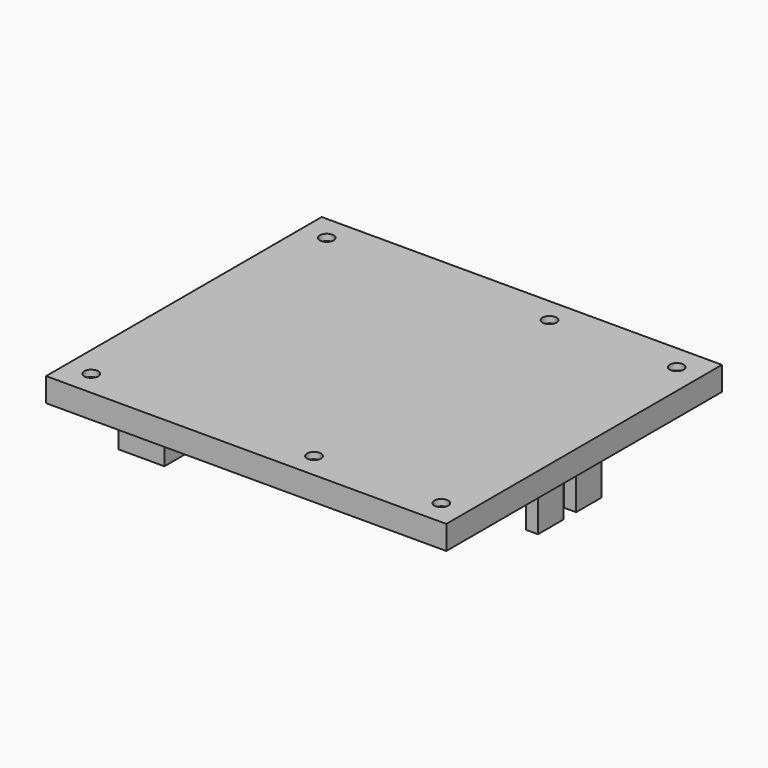
from build123d import *

# Parameters (mm, degrees)
SKETCH031_W             = 98.6
SKETCH031_H             = 84.6
PAD021_DEPTH            = 1.6
SKETCH032_W             = 100.6
SKETCH032_H             = 86.6
SKETCH032_W_2           = 98.6
SKETCH032_H_2           = 84.6
PAD022_DEPTH            = 6
SKETCH034_W             = 11.5
SKETCH034_H             = 15
PAD023_DEPTH            = 22.5
SKETCH035_W             = 3
SKETCH035_H             = 8
PAD024_DEPTH            = 17
SKETCH033_R             = 1.75
POCKET010_DEPTH         = 5
BODY007_PLACEMENT_ANGLE = 180


with BuildPart() as part:
    # Sketch031 → Pad021 (new body)
    with BuildSketch(Plane.XY):
        Rectangle(SKETCH031_W, SKETCH031_H)
    extrude(amount=PAD021_DEPTH)

    # Sketch032 → Pad022 (join)
    with BuildSketch(Plane.XY):
        Rectangle(SKETCH032_W, SKETCH032_H)
        Rectangle(SKETCH032_W_2, SKETCH032_H_2, mode=Mode.SUBTRACT)
    extrude(amount=PAD022_DEPTH)

    # Sketch034 → Pad023 (join)
    with BuildSketch(Plane.XY):
        with Locations((-40.95, 17.5)):
            Rectangle(SKETCH034_W, SKETCH034_H)
        with Locations((-40.95, -17.5)):
            Rectangle(SKETCH034_W, SKETCH034_H)
    extrude(amount=PAD023_DEPTH)

    # Sketch035 → Pad024 (join)
    with BuildSketch(Plane.XY):
        with Locations((45.2, 6)):
            Rectangle(SKETCH035_W, SKETCH035_H)
        with Locations((45.2, -6)):
            Rectangle(SKETCH035_W, SKETCH035_H)
    extrude(amount=PAD024_DEPTH)

    # Sketch033 → Pocket010 (cut)
    with BuildSketch(Plane.XY):
        with Locations((-44, 37)):
            Circle(SKETCH033_R)
        with Locations((12, 37)):
            Circle(SKETCH033_R)
        with Locations((44, 37)):
            Circle(SKETCH033_R)
        with Locations((44, -37)):
            Circle(SKETCH033_R)
        with Locations((12, -37)):
            Circle(SKETCH033_R)
        with Locations((-44, -37)):
            Circle(SKETCH033_R)
    extrude(amount=POCKET010_DEPTH, mode=Mode.SUBTRACT)


with BuildPart() as part_1:
    # Body007 placement: moved
    add(part.part.moved(Location((0, 0, 49.5))).rotate(Axis((0, 0, 49.5), (1, 0, 0)), BODY007_PLACEMENT_ANGLE))


solid = part_1.part
